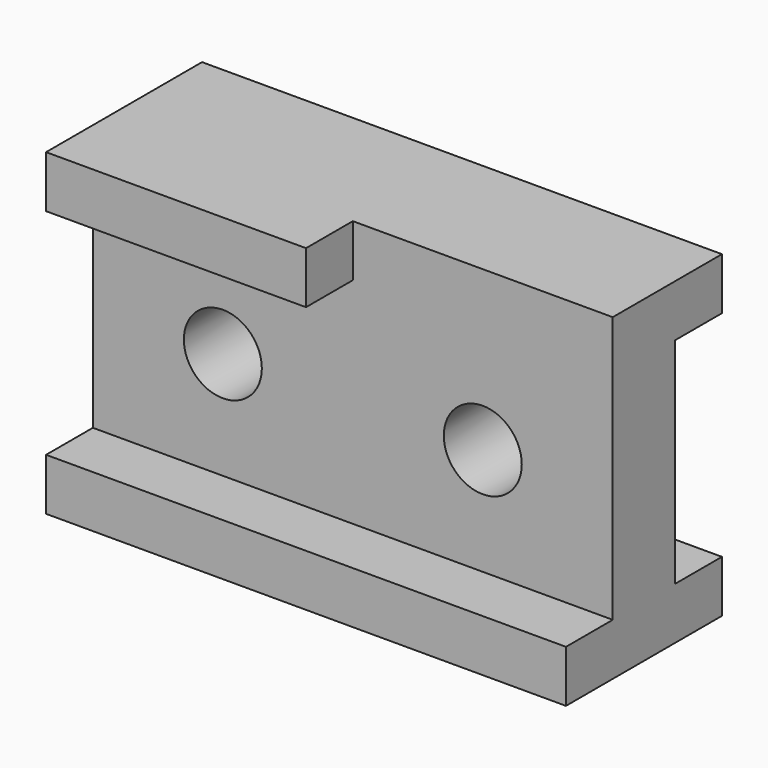
from build123d import *

# Parameters (mm, degrees)
F0_W     = 254
F0_H     = 155.575
F1_DEPTH = 95.25
F2_W     = 254
F2_H     = 104.775
F3_DEPTH = 28.575
F4_W     = 127
F4_H     = 25.4
F5_DEPTH = 28.575
F6_R     = 19.05
F7_DEPTH = 66.676
F8_W     = 28.575
F8_H     = 104.775
F9_DEPTH = 254.001


with BuildPart() as f1:
    # F0 (on Front) → F1 (new body)
    with BuildSketch(Plane.XZ):
        with Locations((-8.396873, -34.632846)):
            Rectangle(F0_W, F0_H)
    extrude(amount=F1_DEPTH)

    # F2 (on face) → F3 (cut)
    with BuildSketch(Plane.XZ.offset(95.25)):
        with Locations((-8.396873, -34.632846)):
            Rectangle(F2_W, F2_H)
    extrude(amount=-F3_DEPTH, mode=Mode.SUBTRACT)

    # F4 (on face) → F5 (cut)
    with BuildSketch(Plane.XZ.offset(95.25)):
        with Locations((55.103127, 30.454654)):
            Rectangle(F4_W, F4_H)
    extrude(amount=-F5_DEPTH, mode=Mode.SUBTRACT)

    # F6 (on face) → F7 (cut, through all)
    with BuildSketch(Plane.XZ.offset(66.675)):
        with Locations((55.103127, -34.632846)):
            Circle(F6_R)
        with Locations((-71.896873, -34.632846)):
            Circle(F6_R)
    extrude(amount=-F7_DEPTH, mode=Mode.SUBTRACT)

    # F8 (on face) → F9 (cut, through all)
    with BuildSketch(Plane.YZ.offset(118.603127)):
        with Locations((-14.2875, -34.632846)):
            Rectangle(F8_W, F8_H)
    extrude(amount=-F9_DEPTH, mode=Mode.SUBTRACT)


solid = f1.part
